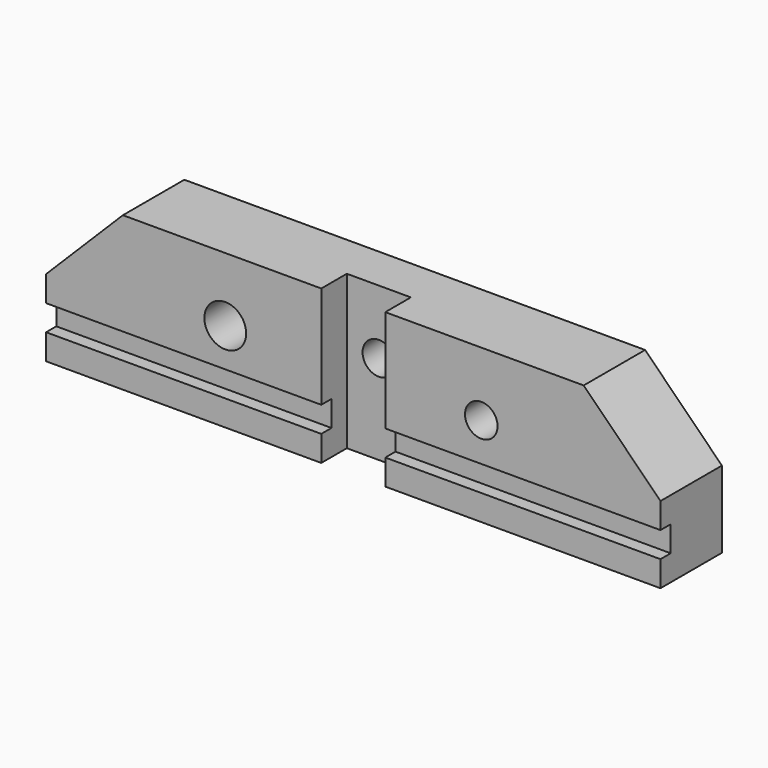
from build123d import *

# Parameters (mm, degrees)
F0_W     = 34.13125
F0_H     = 12.7
F0_R     = 2.5908
F0_W_2   = 7.9375
F0_R_2   = 2.0193
F0_H_2   = 3.175
F1_DEPTH = 9.525
F2_DEPTH = 3.9624
F3_DEPTH = 1.5875
F4_SIZE  = 9.525
F5_D     = 4.0386


with BuildPart() as f1:
    # F0 (on Front) → F1 (new body)
    with BuildSketch(Plane.XZ):
        with Locations((-21.034375, 12.7)):
            Rectangle(F0_W, F0_H)
        with Locations((-15.875, 11.1125)):
            Circle(F0_R, mode=Mode.SUBTRACT)
        with Locations((0, 12.7)):
            Rectangle(F0_W_2, F0_H)
        with Locations((0, 11.1125)):
            Circle(F0_R_2, mode=Mode.SUBTRACT)
        with Locations((-21.034375, 4.7625)):
            Rectangle(F0_W, F0_H_2)
        with Locations((21.034375, 12.7)):
            Rectangle(F0_W, F0_H)
        with Locations((15.875, 11.1125)):
            Circle(F0_R_2, mode=Mode.SUBTRACT)
        with Locations((-21.034375, 1.5875)):
            Rectangle(F0_W, F0_H_2)
        with Locations((21.034375, 4.7625)):
            Rectangle(F0_W, F0_H_2)
        with Locations((0, 1.5875)):
            Rectangle(F0_W_2, F0_H_2)
        with Locations((21.034375, 1.5875)):
            Rectangle(F0_W, F0_H_2)
        with Locations((0, 4.7625)):
            Rectangle(F0_W_2, F0_H_2)
        with Locations((0, 11.1125)):
            Circle(F0_R_2)
        with Locations((15.875, 11.1125)):
            Circle(F0_R_2)
    extrude(amount=-F1_DEPTH)

    # F0 (on Front) → F2 (cut)
    with BuildSketch(Plane.XZ):
        with Locations((0, 12.7)):
            Rectangle(F0_W_2, F0_H)
        with Locations((0, 11.1125)):
            Circle(F0_R_2, mode=Mode.SUBTRACT)
        with Locations((0, 4.7625)):
            Rectangle(F0_W_2, F0_H_2)
        with Locations((0, 1.5875)):
            Rectangle(F0_W_2, F0_H_2)
    extrude(amount=-F2_DEPTH, mode=Mode.SUBTRACT)

    # F0 (on Front) → F3 (cut)
    with BuildSketch(Plane.XZ):
        with Locations((-21.034375, 4.7625)):
            Rectangle(F0_W, F0_H_2)
        with Locations((21.034375, 4.7625)):
            Rectangle(F0_W, F0_H_2)
    extrude(amount=-F3_DEPTH, mode=Mode.SUBTRACT)

    # F4
    f4_edges = [f1.edges().sort_by_distance(p)[0] for p in [
        (38.1, 4.7625, 19.05),
        (-38.1, 4.7625, 19.05),
    ]]
    chamfer(f4_edges, length=F4_SIZE)

    # F5 (through all)
    with Locations(Plane.XZ):
        with Locations((0, 11.1125), (15.875, 11.1125)):
            Hole(F5_D / 2)


solid = f1.part
